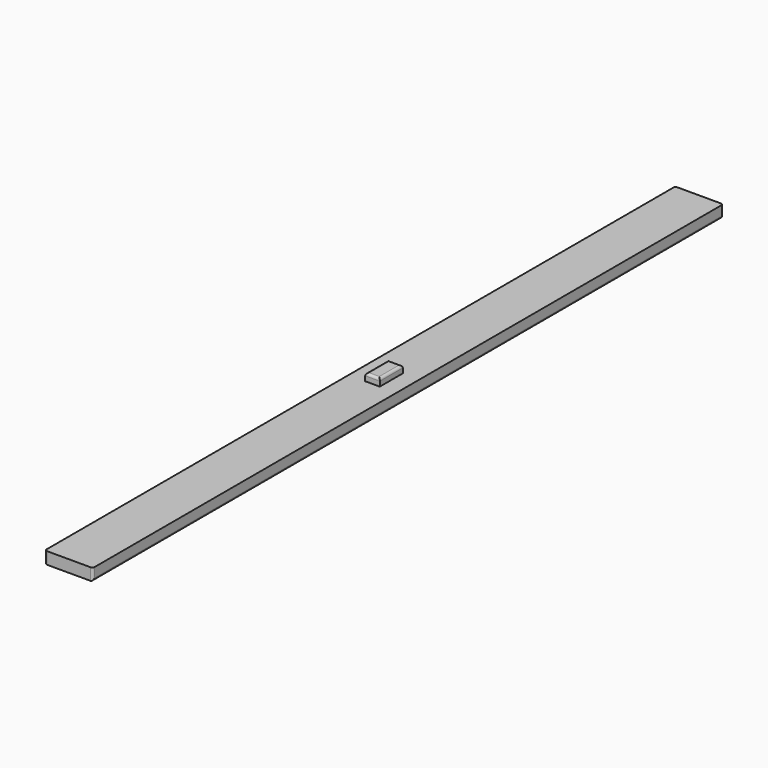
from build123d import *

# Parameters (mm, degrees)
F0_W     = 20
F0_H     = 328.5
F0_W_2   = 6.1
F0_H_2   = 12
F1_DEPTH = 5
F2_DEPTH = 8
F3_R     = 1


with BuildPart() as f1:
    # F0 (on Top) → F1 (new body)
    with BuildSketch(Plane.XY):
        Rectangle(F0_W, F0_H)
        Rectangle(F0_W_2, F0_H_2, mode=Mode.SUBTRACT)
    extrude(amount=F1_DEPTH)

    # F0 (on Top) → F2 (join)
    with BuildSketch(Plane.XY):
        Rectangle(F0_W_2, F0_H_2)
    extrude(amount=F2_DEPTH)

    # F3
    f3_edges = [f1.edges().sort_by_distance(p)[0] for p in [
        (3.05, 0, 8),
        (-3.05, 0, 8),
        (0, 6, 8),
        (0, -6, 8),
        (-10, 0, 0),
        (10, 0, 0),
        (-10, -164.25, 2.5),
        (10, -164.25, 2.5),
        (10, 164.25, 2.5),
        (-10, 164.25, 2.5),
    ]]
    fillet(f3_edges, radius=F3_R)


solid = f1.part
